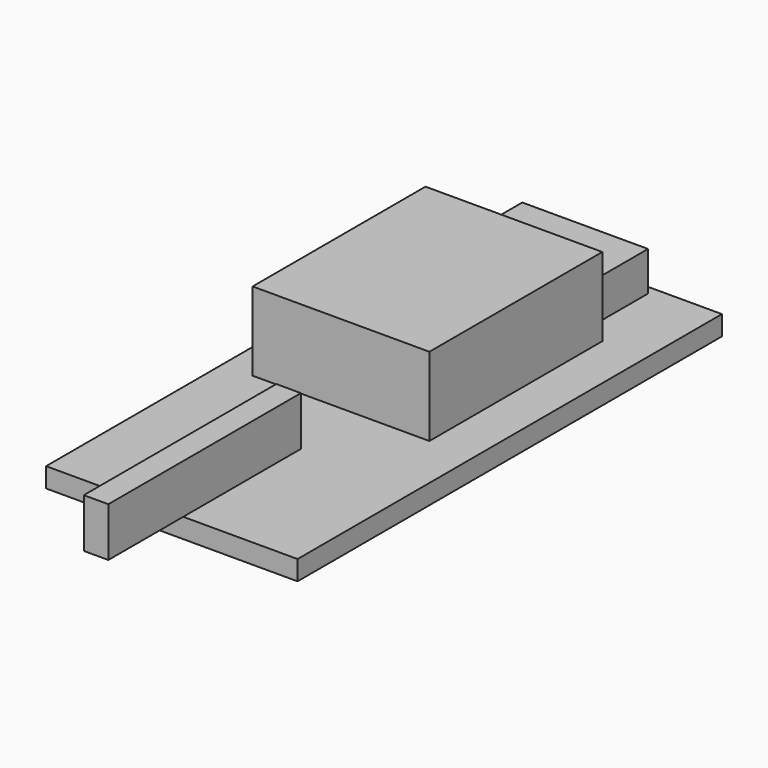
from build123d import *

# Parameters (mm, degrees)
F0_W     = 81.28
F0_H     = 171.45
F1_DEPTH = 6.35
F2_W     = 57.15
F2_H     = 69.85
F3_DEPTH = 25.4
F4_W     = 40.64
F4_H     = 22.86
F5_DEPTH = 12.7
F6_W     = 4.938572
F6_H     = 47.53778
F6_W_2   = 2.998928
F7_DEPTH = 15.875


with BuildPart() as f1:
    # F0 (on Top) → F1 (new body)
    with BuildSketch(Plane.XY):
        with Locations((-47.749023, 24.367116)):
            Rectangle(F0_W, F0_H)
    extrude(amount=F1_DEPTH)

    # F2 (on face) → F3 (join)
    with BuildSketch(Plane.XY.offset(6.35)):
        with Locations((-49.99557, 44.730341)):
            Rectangle(F2_W, F2_H)
    extrude(amount=F3_DEPTH)

    # F4 (on face) → F5 (join)
    with BuildSketch(Plane.XY.offset(6.35)):
        with Locations((-49.00288, 95.77399)):
            Rectangle(F4_W, F4_H)
    extrude(amount=F5_DEPTH)

    # F6 (on face) → F7 (join)
    with BuildSketch(Plane.XY.offset(6.35)):
        Polygon((-49.00288, -13.820104), (-52.001808, -13.820104), (-52.001808, -91.607604), (-44.064308, -91.607604), (-44.064308, -13.820104), align=None)
        with Locations((-46.533594, -37.588994)):
            Rectangle(F6_W, F6_H)
        with Locations((-50.502344, -37.588994)):
            Rectangle(F6_W_2, F6_H)
    extrude(amount=F7_DEPTH)


solid = f1.part
